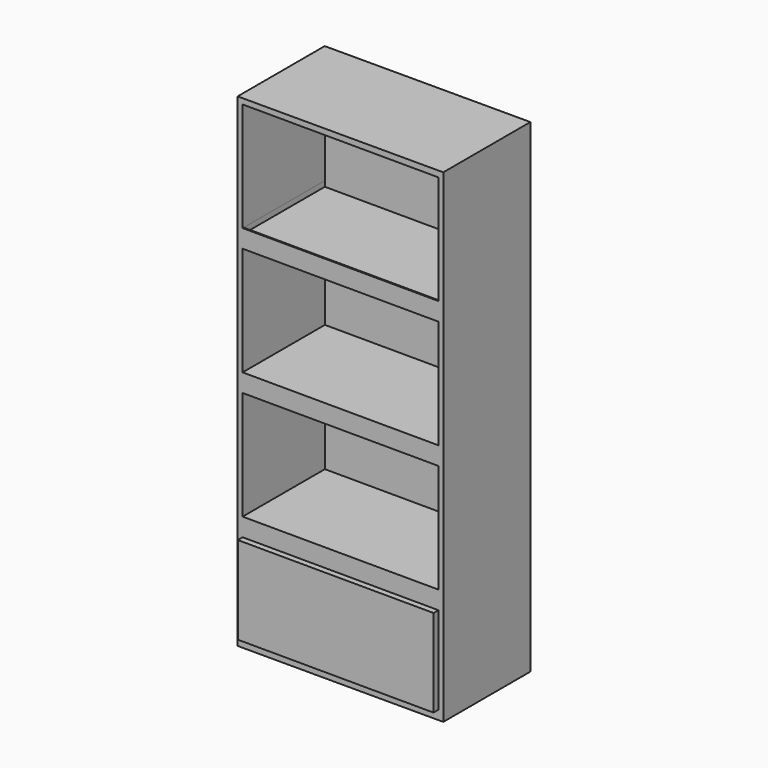
from build123d import *

# Parameters (mm, degrees)
F0_W     = 86.36
F0_H     = 203.2
F1_DEPTH = 45.72
F3_DEPTH = 43.18
F5_DEPTH = 2.54
F6_W     = 82.3488
F6_H     = 42.672
F7_DEPTH = 2.286


with BuildPart() as f1:
    # F0 (on Front) → F1 (new body)
    with BuildSketch(Plane.XZ):
        with Locations((43.18, -101.6)):
            Rectangle(F0_W, F0_H)
    extrude(amount=-F1_DEPTH)

    # F2 (on face) → F3 (cut)
    with BuildSketch(Plane.XZ):
        Polygon((84.44604, -2.54), (2.097583, -2.302555), (2.097583, -48.022555), (84.44604, -48.26), align=None)
        Polygon((84.44604, -101.6), (84.44604, -55.88), (2.097583, -55.642555), (2.097583, -101.362555), align=None)
        Polygon((84.31421, -154.93981), (84.44604, -109.22), (2.097583, -108.982555), (2.097583, -154.702555), align=None)
    extrude(amount=-F3_DEPTH, mode=Mode.SUBTRACT)

    # F4 (on face) → F5 (join)
    with BuildSketch(Plane.XZ):
        Polygon((84.292239, -199.389778), (84.292239, -162.559778), (2.097583, -162.322555), (2.097583, -199.152555), align=None)
    extrude(amount=F5_DEPTH)

    # F6 (on face) → F7 (cut)
    with BuildSketch(Plane(origin=(-0.13845, 0, -48.016108), x_dir=(0.999996, 0, -0.002883), z_dir=(0.002883, 0, 0.999996))):
        with Locations((43.410442, 21.844)):
            Rectangle(F6_W, F6_H)
    extrude(amount=-F7_DEPTH, mode=Mode.SUBTRACT)


solid = f1.part
